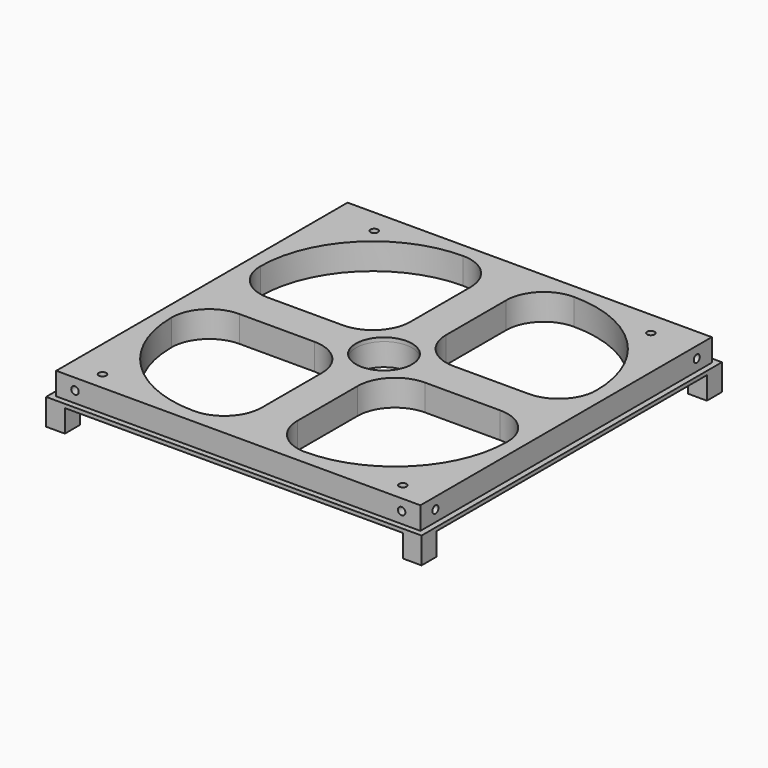
from build123d import *

# Parameters (mm, degrees)
F1_DEPTH        = 6
F0_W            = 100
F0_H            = 100
F1_FACE_W       = 97
F1_FACE_H       = 97
F1_FACE_R       = 7.4829182058
F2_DEPTH        = 1
F4_D            = 2
F4_DEPTH        = 20
F4_TIP          = 0.600860619
F6_D            = 2
F6_DEPTH        = 20
F6_TIP          = 0.600860619
F8_D            = 2
F8_DEPTH        = 20
F8_TIP          = 0.600860619
F10_D           = 2
F10_DEPTH       = 20
F10_TIP         = 0.600860619
F12_D           = 2
F12_CSINK_D     = 4
F12_CSINK_ANGLE = 90
F11_W           = 5
F11_H           = 5
F13_DEPTH       = 6


with BuildPart() as f1:
    # F0 (on Top) → F1 (new body)
    with BuildSketch(Plane.XY):
        with BuildLine():
            Line((48.5, 48.5), (-48.5, 48.5))
            Line((-48.5, 48.5), (-48.5, 0))
            Line((-48.5, 0), (-7.4829182058, 0))
            ThreePointArc((-7.4829182058, 0), (0, 7.4829182058), (7.4829182058, 0))
            Line((7.4829182058, 0), (48.5, 0))
            Line((48.5, 0), (48.5, 48.5))
        make_face()
        with BuildLine():
            ThreePointArc((-4.75, 14.75), (-7.6789321881, 7.6789321881), (-14.75, 4.75))
            Line((-14.75, 4.75), (-34.75, 4.75))
            ThreePointArc((-34.75, 4.75), (-41.8210678119, 7.6789321881), (-44.75, 14.75))
            ThreePointArc((-44.75, 14.75), (-35.9632034356, 35.9632034356), (-14.75, 44.75))
            ThreePointArc((-14.75, 44.75), (-7.6789321881, 41.8210678119), (-4.75, 34.75))
            Line((-4.75, 34.75), (-4.75, 14.75))
        make_face(mode=Mode.SUBTRACT)
        with BuildLine():
            ThreePointArc((14.75, 4.75), (7.6789321881, 7.6789321881), (4.75, 14.75))
            Line((4.75, 14.75), (4.75, 34.75))
            ThreePointArc((4.75, 34.75), (7.6789321881, 41.8210678119), (14.75, 44.75))
            ThreePointArc((14.75, 44.75), (35.9632034356, 35.9632034356), (44.75, 14.75))
            ThreePointArc((44.75, 14.75), (41.8210678119, 7.6789321881), (34.75, 4.75))
            Line((34.75, 4.75), (14.75, 4.75))
        make_face(mode=Mode.SUBTRACT)
        with BuildLine():
            Line((-7.4829182058, 0), (-48.5, 0))
            Line((-48.5, 0), (-48.5, -48.5))
            Line((-48.5, -48.5), (48.5, -48.5))
            Line((48.5, -48.5), (48.5, 0))
            Line((48.5, 0), (7.4829182058, 0))
            ThreePointArc((7.4829182058, 0), (0, -7.4829182058), (-7.4829182058, 0))
        make_face()
        with BuildLine():
            ThreePointArc((-14.75, -4.75), (-7.6789321881, -7.6789321881), (-4.75, -14.75))
            Line((-4.75, -14.75), (-4.75, -34.75))
            ThreePointArc((-4.75, -34.75), (-7.6789321881, -41.8210678119), (-14.75, -44.75))
            ThreePointArc((-14.75, -44.75), (-35.9632034356, -35.9632034356), (-44.75, -14.75))
            ThreePointArc((-44.75, -14.75), (-41.8210678119, -7.6789321881), (-34.75, -4.75))
            Line((-34.75, -4.75), (-14.75, -4.75))
        make_face(mode=Mode.SUBTRACT)
        with BuildLine():
            ThreePointArc((4.75, -14.75), (7.6789321881, -7.6789321881), (14.75, -4.75))
            Line((14.75, -4.75), (34.75, -4.75))
            ThreePointArc((34.75, -4.75), (41.8210678119, -7.6789321881), (44.75, -14.75))
            ThreePointArc((44.75, -14.75), (35.9632034356, -35.9632034356), (14.75, -44.75))
            ThreePointArc((14.75, -44.75), (7.6789321881, -41.8210678119), (4.75, -34.75))
            Line((4.75, -34.75), (4.75, -14.75))
        make_face(mode=Mode.SUBTRACT)
    extrude(amount=F1_DEPTH)

    # F0 (on Top) + F1_face (on face) → F2 (join)
    with BuildSketch(Plane.XY):
        Rectangle(F0_W, F0_H)
        Polygon((-48.5, 0), (-48.5, 48.5), (48.5, 48.5), (48.5, 0), (48.5, -48.5), (-48.5, -48.5), align=None, mode=Mode.SUBTRACT)
    with BuildSketch(Plane.XY.offset(6)):
        Rectangle(F1_FACE_W, F1_FACE_H)
        Circle(F1_FACE_R, mode=Mode.SUBTRACT)
        with BuildLine():
            ThreePointArc((-4.75, 14.75), (-7.6789321881, 7.6789321881), (-14.75, 4.75))
            Line((-14.75, 4.75), (-34.75, 4.75))
            ThreePointArc((-34.75, 4.75), (-41.8210678119, 7.6789321881), (-44.75, 14.75))
            ThreePointArc((-44.75, 14.75), (-35.9632034356, 35.9632034356), (-14.75, 44.75))
            ThreePointArc((-14.75, 44.75), (-7.6789321881, 41.8210678119), (-4.75, 34.75))
            Line((-4.75, 34.75), (-4.75, 14.75))
        make_face(mode=Mode.SUBTRACT)
        with BuildLine():
            ThreePointArc((44.75, 14.75), (41.8210678119, 7.6789321881), (34.75, 4.75))
            Line((34.75, 4.75), (14.75, 4.75))
            ThreePointArc((14.75, 4.75), (7.6789321881, 7.6789321881), (4.75, 14.75))
            Line((4.75, 14.75), (4.75, 34.75))
            ThreePointArc((4.75, 34.75), (7.6789321881, 41.8210678119), (14.75, 44.75))
            ThreePointArc((14.75, 44.75), (35.9632034356, 35.9632034356), (44.75, 14.75))
        make_face(mode=Mode.SUBTRACT)
        with BuildLine():
            Line((4.75, -34.75), (4.75, -14.75))
            ThreePointArc((4.75, -14.75), (7.6789321881, -7.6789321881), (14.75, -4.75))
            Line((14.75, -4.75), (34.75, -4.75))
            ThreePointArc((34.75, -4.75), (41.8210678119, -7.6789321881), (44.75, -14.75))
            ThreePointArc((44.75, -14.75), (35.9632034356, -35.9632034356), (14.75, -44.75))
            ThreePointArc((14.75, -44.75), (7.6789321881, -41.8210678119), (4.75, -34.75))
        make_face(mode=Mode.SUBTRACT)
        with BuildLine():
            ThreePointArc((-44.75, -14.75), (-41.8210678119, -7.6789321881), (-34.75, -4.75))
            Line((-34.75, -4.75), (-14.75, -4.75))
            ThreePointArc((-14.75, -4.75), (-7.6789321881, -7.6789321881), (-4.75, -14.75))
            Line((-4.75, -14.75), (-4.75, -34.75))
            ThreePointArc((-4.75, -34.75), (-7.6789321881, -41.8210678119), (-14.75, -44.75))
            ThreePointArc((-14.75, -44.75), (-35.9632034356, -35.9632034356), (-44.75, -14.75))
        make_face(mode=Mode.SUBTRACT)
    extrude(amount=F2_DEPTH)

    # F4
    with Locations(Plane(origin=(0, 48.5, 0), x_dir=(-1, 0, 0), z_dir=(0, 1, 0))):
        with Locations((-43.5, 4), (43.5, 4)):
            Hole(F4_D / 2, depth=F4_DEPTH)
            with Locations((0, 0, -(F4_DEPTH + F4_TIP / 2))):  # 118° drill point
                Cone(0, F4_D / 2, F4_TIP, mode=Mode.SUBTRACT)

    # F6
    with Locations(Plane(origin=(-48.5, 0, 0), x_dir=(0, -1, 0), z_dir=(-1, 0, 0))):
        with Locations((-43.5, 4), (43.5, 4)):
            Hole(F6_D / 2, depth=F6_DEPTH)
            with Locations((0, 0, -(F6_DEPTH + F6_TIP / 2))):  # 118° drill point
                Cone(0, F6_D / 2, F6_TIP, mode=Mode.SUBTRACT)

    # F8
    with Locations(Plane.XZ.offset(48.5)):
        with Locations((-43.5, 4), (43.5, 4)):
            Hole(F8_D / 2, depth=F8_DEPTH)
            with Locations((0, 0, -(F8_DEPTH + F8_TIP / 2))):  # 118° drill point
                Cone(0, F8_D / 2, F8_TIP, mode=Mode.SUBTRACT)

    # F10
    with Locations(Plane.YZ.offset(48.5)):
        with Locations((-43.5, 4), (43.5, 4)):
            Hole(F10_D / 2, depth=F10_DEPTH)
            with Locations((0, 0, -(F10_DEPTH + F10_TIP / 2))):  # 118° drill point
                Cone(0, F10_D / 2, F10_TIP, mode=Mode.SUBTRACT)

    # F12 (through all)
    with Locations(Plane(origin=(0, 0, 0), x_dir=(1, 0, 0), z_dir=(0, 0, -1))):
        with Locations((-36.195, -42.0108908522), (-40.005, 43.7191091478), (40.005, 43.7191091478), (37.465, -42.0108908522)):
            CounterSinkHole(F12_D / 2, F12_CSINK_D / 2, counter_sink_angle=F12_CSINK_ANGLE)

    # F11 (on face) → F13 (join)
    with BuildSketch(Plane(origin=(0, 0, 0), x_dir=(1, 0, 0), z_dir=(0, 0, -1))):
        with Locations((-47.5, 47.5)):
            Rectangle(F11_W, F11_H)
        with Locations((47.5, 47.5)):
            Rectangle(F11_W, F11_H)
        with Locations((47.5, -47.5)):
            Rectangle(F11_W, F11_H)
        with Locations((-47.5, -47.5)):
            Rectangle(F11_W, F11_H)
    extrude(amount=F13_DEPTH)


solid = f1.part
